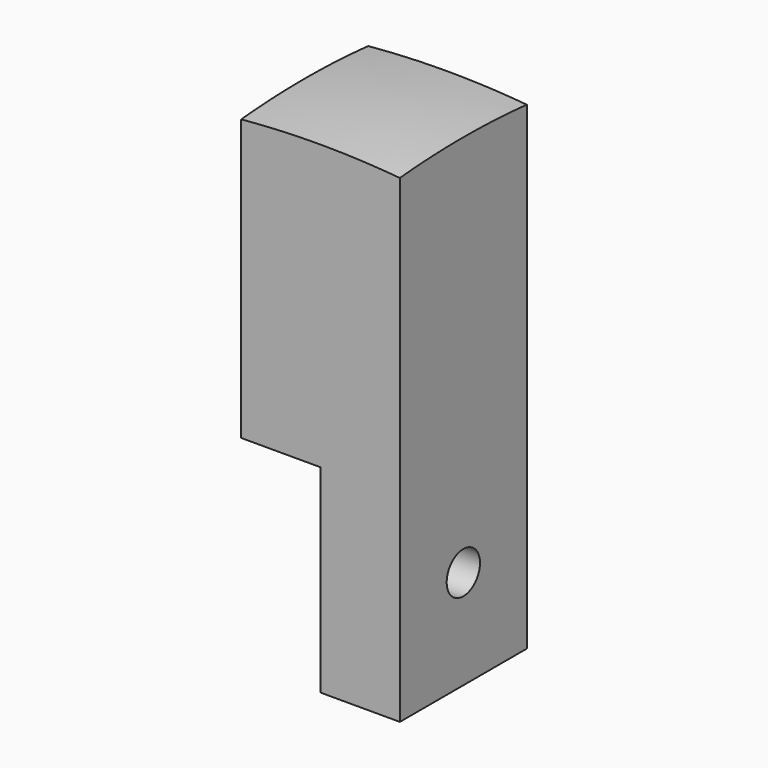
from build123d import *

# Parameters (mm, degrees)
F2_W     = 16
F2_H     = 16
F3_DEPTH = 100
F4_W     = 20
F4_H     = 140
F5_DEPTH = 12.5
F6_W     = 16
F6_H     = 20
F7_DEPTH = 25
F9_D     = 4.2


with BuildPart() as f1:
    # F0 (on Front) → F1 (revolve)
    with BuildSketch(Plane.XZ):
        with BuildLine():
            Line((0, -89), (0, 89))
            ThreePointArc((0, 89), (-89, 0), (0, -89))
        make_face()
    revolve(axis=Axis((0, 0, 0), (0, 0, -1)))

    # F2 (on Top) → F3 (intersect, symmetric)
    with BuildSketch(Plane.XY):
        Rectangle(F2_W, F2_H)
    extrude(amount=F3_DEPTH, both=True, mode=Mode.INTERSECT)

    # F4 (on Front) → F5 (cut, symmetric)
    with BuildSketch(Plane.XZ):
        with Locations((0, -30)):
            Rectangle(F4_W, F4_H)
    extrude(amount=F5_DEPTH, both=True, mode=Mode.SUBTRACT)

    # F6 (on Right) → F7 (cut)
    with BuildSketch(Plane.YZ):
        with Locations((0, 50)):
            Rectangle(F6_W, F6_H)
    extrude(amount=-F7_DEPTH, mode=Mode.SUBTRACT)

    # F9 (through all)
    with Locations(Plane(origin=(0, 0, 0), x_dir=(0, -1, 0), z_dir=(-1, 0, 0))):
        with Locations((0, 50)):
            Hole(F9_D / 2)


solid = f1.part
